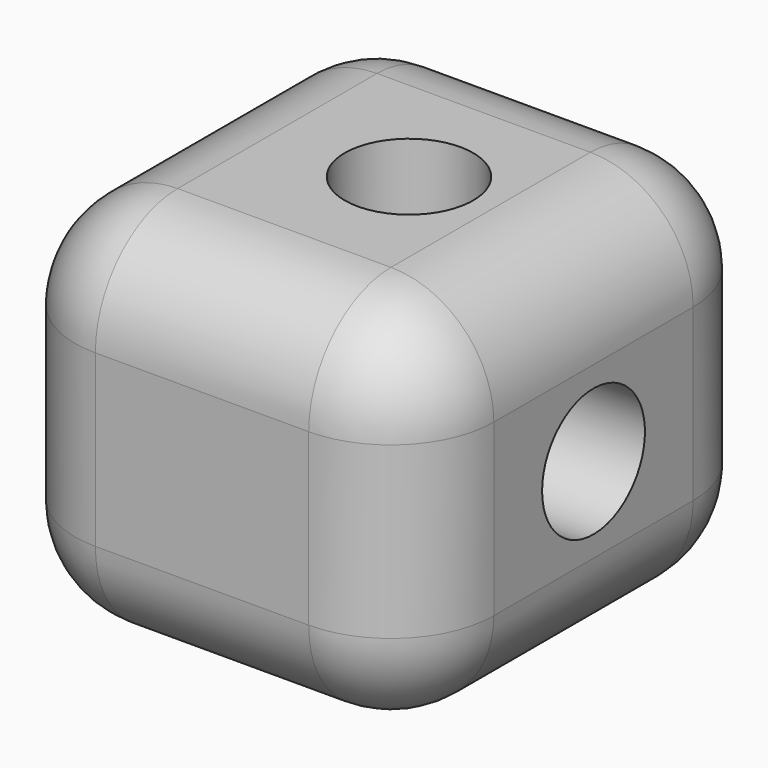
from build123d import *

# Parameters (mm, degrees)
F0_W     = 89.89758
F0_H     = 74.309834
F1_DEPTH = 82.804
F2_R     = 20.32
F4_D     = 25.4
F6_D     = 25.4


with BuildPart() as f1:
    # F0 (on Right) → F1 (new body)
    with BuildSketch(Plane.YZ):
        Rectangle(F0_W, F0_H)
    extrude(amount=F1_DEPTH)

    # F2
    f2_edges = [f1.edges().sort_by_distance(p)[0] for p in [
        (41.402, 44.94879, 37.154917),
        (41.402, -44.94879, 37.154917),
        (0, 0, 37.154917),
        (82.804, 0, 37.154917),
        (82.804, 0, -37.154917),
        (82.804, 44.94879, 0),
        (82.804, -44.94879, 0),
        (41.402, -44.94879, -37.154917),
        (0, -44.94879, 0),
        (41.402, 44.94879, -37.154917),
        (0, 44.94879, 0),
        (0, 0, -37.154917),
    ]]
    fillet(f2_edges, radius=F2_R)

    # F4 (through all)
    with Locations(Plane.XY.offset(37.154917)):
        with Locations((45.72, 0.77121)):
            Hole(F4_D / 2)

    # F6 (through all)
    with Locations(Plane.YZ.offset(82.804)):
        with Locations((0, 0)):
            Hole(F6_D / 2)


solid = f1.part
